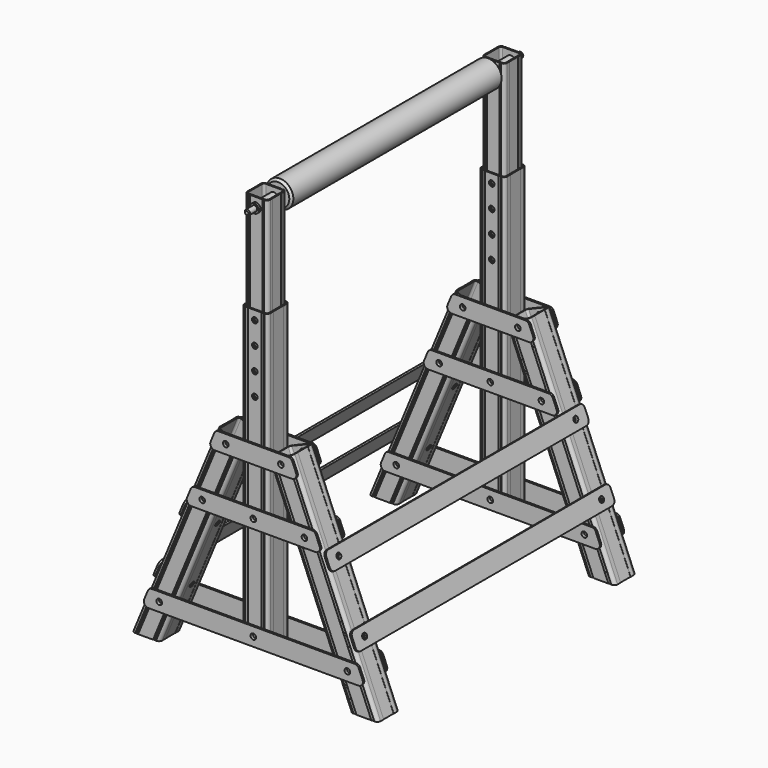
from build123d import *

# Parameters (mm, degrees)
F0_R      = 6.25
F1_DEPTH  = 60
F2_R      = 6.25
F3_DEPTH  = 57.7
F4_R      = 7.5
F6_DEPTH  = 501
F7_W      = 57.7
F7_H      = 654
F7_R      = 6.25
F8_DEPTH  = 60
F9_R      = 7.5
F11_DEPTH = 654
F15_W     = 51
F15_H     = 610
F15_R     = 6.25
F15_R_2   = 10
F16_DEPTH = 26.15
F17_R     = 7.5
F19_DEPTH = 610
F21_R     = 6.25
F22_DEPTH = 4
F23_R     = 10
F23_2_R   = 10
F23_3_R   = 10
F26_R     = 10
F26_R_2   = 6.25
F27_DEPTH = 31
F29_W     = 720
F29_H     = 40
F29_R     = 6.25
F30_DEPTH = 4
F31_R     = 10
F31_2_R   = 10
F34_R     = 5.9
F35_DEPTH = 382.5
F36_R     = 30
F36_R_2   = 6.25
F37_DEPTH = 295
F38_SIZE  = 2
F40_SIZE  = 5


with BuildPart() as f1:
    # F0 (on Front) → F1 (new body)
    with BuildSketch(Plane.XZ):
        Polygon((-62.4540299569, 0), (0, 0), (-191.3417161825, 461.9397662556), (-244.6495652084, 439.8589322082), align=None)
        with Locations((-64.9222677495, 81.3475362274)):
            Circle(F0_R, mode=Mode.SUBTRACT)
        with Locations((-160.5931258407, 312.3174193552)):
            Circle(F0_R, mode=Mode.SUBTRACT)
        with Locations((-213.0207560747, 438.8889153093)):
            Circle(F0_R, mode=Mode.SUBTRACT)
    extrude(amount=F1_DEPTH)

    # F2 (on face) → F3 (cut, through all)
    with BuildSketch(Plane(origin=(0, 0, 0), x_dir=(0, 1, 0), z_dir=(0.9238795325, 0, 0.3826834324))):
        with Locations((-30, 150)):
            Circle(F2_R)
        with Locations((-30, 300)):
            Circle(F2_R)
    extrude(amount=-F3_DEPTH, mode=Mode.SUBTRACT)

    # F4
    f4_edges = [f1.edges().sort_by_distance(p)[0] for p in [
        (-153.551798, -60, 219.929466),
        (-95.670858, -60, 230.969883),
        (-153.551798, 0, 219.929466),
        (-95.670858, 0, 230.969883),
    ]]
    fillet(f4_edges, radius=F4_R)

    # F5 (on face) → F6 (cut, up to face)
    with BuildSketch(Plane(origin=(-191.3417161825, 0, 461.9397662556), x_dir=(0.9238795325, 0, 0.3826834324), z_dir=(-0.3826834324, 0, 0.9238795325))):
        Polygon((-45.2, -59), (-46.2, -60), (-44.2, -60), align=None)
        Polygon((-47.2, -59), (-48.2, -60), (-46.2, -60), align=None)
        Polygon((-49.2, -59), (-50.2, -60), (-48.2, -60), align=None)
        Polygon((-8.5, -59), (-9.5, -60), (-7.5, -60), align=None)
        Polygon((-10.5, -59), (-11.5, -60), (-9.5, -60), align=None)
        Polygon((-12.5, -59), (-13.5, -60), (-11.5, -60), align=None)
        Polygon((-0.3, -44), (0, -44), (0, -16), (-0.3, -16), (-0.3, -30), align=None)
        Polygon((-57.4, -44), (-57.4, -30), (-57.4, -16), (-57.7, -16), (-57.7, -44), align=None)
        Polygon((-48.2, 0), (-50.2, 0), (-49.2, -1), align=None)
        Polygon((-46.2, 0), (-48.2, 0), (-47.2, -1), align=None)
        Polygon((-44.2, 0), (-46.2, 0), (-45.2, -1), align=None)
        Polygon((-7.5, 0), (-9.5, 0), (-8.5, -1), align=None)
        Polygon((-9.5, 0), (-11.5, 0), (-10.5, -1), align=None)
        Polygon((-11.5, 0), (-13.5, 0), (-12.5, -1), align=None)
        with BuildLine():
            Line((-54.8, -30), (-54.8, -52.5))
            ThreePointArc((-54.8, -52.5), (-53.4526911935, -55.7526911935), (-50.2, -57.1))
            Line((-50.2, -57.1), (-28.85, -57.1))
            Line((-28.85, -57.1), (-7.5, -57.1))
            ThreePointArc((-7.5, -57.1), (-4.2473088065, -55.7526911935), (-2.9, -52.5))
            Line((-2.9, -52.5), (-2.9, -30))
            Line((-2.9, -30), (-2.9, -7.5))
            ThreePointArc((-2.9, -7.5), (-4.2473088065, -4.2473088065), (-7.5, -2.9))
            Line((-7.5, -2.9), (-28.85, -2.9))
            Line((-28.85, -2.9), (-50.2, -2.9))
            ThreePointArc((-50.2, -2.9), (-53.4526911935, -4.2473088065), (-54.8, -7.5))
            Line((-54.8, -7.5), (-54.8, -30))
        make_face()
    extrude(amount=-F6_DEPTH, mode=Mode.SUBTRACT)


with BuildPart() as f8:
    # F7 (on face) → F8 (new body)
    with BuildSketch(Plane.XZ.offset(60)):
        with Locations((-274.4995652084, 393.3174193552)):
            Rectangle(F7_W, F7_H)
        with Locations((-274.4995652084, 81.3475362274)):
            Circle(F7_R, mode=Mode.SUBTRACT)
        with Locations((-274.4995652084, 312.3174193552)):
            Circle(F7_R, mode=Mode.SUBTRACT)
        with Locations((-274.4995652084, 600.3174193552)):
            Circle(F7_R, mode=Mode.SUBTRACT)
        with Locations((-274.4995652084, 650.3174193552)):
            Circle(F7_R, mode=Mode.SUBTRACT)
        with Locations((-274.4995652084, 700.3174193552)):
            Circle(F7_R, mode=Mode.SUBTRACT)
        with Locations((-274.4995652084, 550.3174193552)):
            Circle(F7_R, mode=Mode.SUBTRACT)
    extrude(amount=-F8_DEPTH)

    # F9
    f9_edges = [f8.edges().sort_by_distance(p)[0] for p in [
        (-303.349565, 0, 393.317419),
        (-303.349565, -60, 393.317419),
        (-245.649565, -60, 393.317419),
        (-245.649565, 0, 393.317419),
    ]]
    fillet(f9_edges, radius=F9_R)

    # F10 (on face) → F11 (cut, through all)
    with BuildSketch(Plane.XY.offset(720.3174193552)):
        Polygon((-290.8495652084, -59), (-291.8495652084, -60), (-289.8495652084, -60), align=None)
        Polygon((-292.8495652084, -59), (-293.8495652084, -60), (-291.8495652084, -60), align=None)
        Polygon((-294.8495652084, -59), (-295.8495652084, -60), (-293.8495652084, -60), align=None)
        Polygon((-303.3495652084, -16), (-303.3495652084, -44), (-303.0495652084, -44), (-303.0495652084, -30), (-303.0495652084, -16), align=None)
        Polygon((-254.1495652084, -59), (-255.1495652084, -60), (-253.1495652084, -60), align=None)
        Polygon((-256.1495652084, -59), (-257.1495652084, -60), (-255.1495652084, -60), align=None)
        Polygon((-258.1495652084, -59), (-259.1495652084, -60), (-257.1495652084, -60), align=None)
        Polygon((-245.9495652084, -44), (-245.6495652084, -44), (-245.6495652084, -16), (-245.9495652084, -16), (-245.9495652084, -30), align=None)
        Polygon((-253.1495652084, 0), (-255.1495652084, 0), (-254.1495652084, -1), align=None)
        Polygon((-255.1495652084, 0), (-257.1495652084, 0), (-256.1495652084, -1), align=None)
        Polygon((-257.1495652084, 0), (-259.1495652084, 0), (-258.1495652084, -1), align=None)
        Polygon((-293.8495652084, 0), (-295.8495652084, 0), (-294.8495652084, -1), align=None)
        Polygon((-291.8495652084, 0), (-293.8495652084, 0), (-292.8495652084, -1), align=None)
        Polygon((-289.8495652084, 0), (-291.8495652084, 0), (-290.8495652084, -1), align=None)
        with BuildLine():
            Line((-300.4495652084, -30), (-300.4495652084, -52.5))
            ThreePointArc((-300.4495652084, -52.5), (-299.1022564019, -55.7526911935), (-295.8495652084, -57.1))
            Line((-295.8495652084, -57.1), (-274.4995652084, -57.1))
            Line((-274.4995652084, -57.1), (-253.1495652084, -57.1))
            ThreePointArc((-253.1495652084, -57.1), (-249.896874015, -55.7526911935), (-248.5495652084, -52.5))
            Line((-248.5495652084, -52.5), (-248.5495652084, -30))
            Line((-248.5495652084, -30), (-248.5495652084, -7.5))
            ThreePointArc((-248.5495652084, -7.5), (-249.896874015, -4.2473088065), (-253.1495652084, -2.9))
            Line((-253.1495652084, -2.9), (-274.4995652084, -2.9))
            Line((-274.4995652084, -2.9), (-295.8495652084, -2.9))
            ThreePointArc((-295.8495652084, -2.9), (-299.1022564019, -4.2473088065), (-300.4495652084, -7.5))
            Line((-300.4495652084, -7.5), (-300.4495652084, -30))
        make_face()
    extrude(amount=-F11_DEPTH, mode=Mode.SUBTRACT)


with BuildPart() as f16:
    # F15 (on mid) → F16 (new body, symmetric)
    with BuildSketch(Plane(origin=(0, -30, 0), x_dir=(-1, 0, 0), z_dir=(0, 1, 0))):
        with Locations((274.4995652084, 635.3174193552)):
            Rectangle(F15_W, F15_H)
        with Locations((274.4995652084, 350.3174193552)):
            Circle(F15_R, mode=Mode.SUBTRACT)
        with Locations((274.4995652084, 400.3174193552)):
            Circle(F15_R, mode=Mode.SUBTRACT)
        with Locations((274.4995652084, 450.3174193552)):
            Circle(F15_R, mode=Mode.SUBTRACT)
        with Locations((274.4995652084, 500.3174193552)):
            Circle(F15_R, mode=Mode.SUBTRACT)
        with Locations((274.4995652084, 550.3174193552)):
            Circle(F15_R, mode=Mode.SUBTRACT)
        with Locations((274.4995652084, 600.3174193552)):
            Circle(F15_R, mode=Mode.SUBTRACT)
        with Locations((274.4995652084, 650.3174193552)):
            Circle(F15_R, mode=Mode.SUBTRACT)
        with Locations((274.4995652084, 700.3174193552)):
            Circle(F15_R, mode=Mode.SUBTRACT)
        with Locations((274.4995652084, 920)):
            Circle(F15_R_2, mode=Mode.SUBTRACT)
    extrude(amount=F16_DEPTH, both=True)

    # F17
    f17_edges = [f16.edges().sort_by_distance(p)[0] for p in [
        (-248.999565, -56.15, 635.317419),
        (-299.999565, -56.15, 635.317419),
        (-248.999565, -3.85, 635.317419),
        (-299.999565, -3.85, 635.317419),
    ]]
    fillet(f17_edges, radius=F17_R)

    # F18 (on face) → F19 (cut, through all)
    with BuildSketch(Plane.XY.offset(940.3174193552)):
        Polygon((-248.9995652084, -42.15), (-248.9995652084, -17.85), (-249.2495652084, -17.85), (-249.2495652084, -30), (-249.2495652084, -42.15), align=None)
        Polygon((-299.7495652084, -17.85), (-299.9995652084, -17.85), (-299.9995652084, -42.15), (-299.7495652084, -42.15), (-299.7495652084, -30), align=None)
        Polygon((-292.4995652084, -56.15), (-290.4995652084, -56.15), (-291.4995652084, -55.15), align=None)
        Polygon((-290.4995652084, -56.15), (-288.4995652084, -56.15), (-289.4995652084, -55.15), align=None)
        Polygon((-258.4995652084, -56.15), (-256.4995652084, -56.15), (-257.4995652084, -55.15), align=None)
        Polygon((-260.4995652084, -56.15), (-258.4995652084, -56.15), (-259.4995652084, -55.15), align=None)
        Polygon((-257.4995652084, -4.85), (-256.4995652084, -3.85), (-258.4995652084, -3.85), align=None)
        Polygon((-259.4995652084, -4.85), (-258.4995652084, -3.85), (-260.4995652084, -3.85), align=None)
        Polygon((-291.4995652084, -4.85), (-290.4995652084, -3.85), (-292.4995652084, -3.85), align=None)
        Polygon((-289.4995652084, -4.85), (-288.4995652084, -3.85), (-290.4995652084, -3.85), align=None)
        with BuildLine():
            Line((-251.8995652084, -30), (-251.8995652084, -11.35))
            ThreePointArc((-251.8995652084, -11.35), (-253.246874015, -8.0973088065), (-256.4995652084, -6.75))
            Line((-256.4995652084, -6.75), (-274.4995652084, -6.75))
            Line((-274.4995652084, -6.75), (-292.4995652084, -6.75))
            ThreePointArc((-292.4995652084, -6.75), (-295.7522564019, -8.0973088065), (-297.0995652084, -11.35))
            Line((-297.0995652084, -11.35), (-297.0995652084, -30))
            Line((-297.0995652084, -30), (-297.0995652084, -48.65))
            ThreePointArc((-297.0995652084, -48.65), (-295.7522564019, -51.9026911935), (-292.4995652084, -53.25))
            Line((-292.4995652084, -53.25), (-274.4995652084, -53.25))
            Line((-274.4995652084, -53.25), (-256.4995652084, -53.25))
            ThreePointArc((-256.4995652084, -53.25), (-253.246874015, -51.9026911935), (-251.8995652084, -48.65))
            Line((-251.8995652084, -48.65), (-251.8995652084, -30))
        make_face()
    extrude(amount=-F19_DEPTH, mode=Mode.SUBTRACT)


with BuildPart() as f20_1:
    # F20: instance of F1
    add(f1.part.mirror(Plane(origin=(-274.4995652084, -11.75, 393.3174193552), x_dir=(0, -1, 0), z_dir=(-1, 0, 0))))


with BuildPart() as f22:
    # F21 (on face) → F22 (new body)
    with BuildSketch(Plane.XZ.offset(60)):
        Polygon((-137.6503821098, 332.3174193552), (-411.3487483071, 332.3174193552), (-427.9172908021, 292.3174193552), (-121.0818396148, 292.3174193552), align=None)
        with Locations((-388.4060045762, 312.3174193552)):
            Circle(F21_R, mode=Mode.SUBTRACT)
        with Locations((-274.4995652084, 312.3174193552)):
            Circle(F21_R, mode=Mode.SUBTRACT)
        with Locations((-160.5931258407, 312.3174193552)):
            Circle(F21_R, mode=Mode.SUBTRACT)
    extrude(amount=F22_DEPTH)

    # F23#2
    f23_2_edges = [f22.edges().sort_by_distance(p)[0] for p in [
        (-137.650382, -62, 332.317419),
        (-121.08184, -62, 292.317419),
        (-427.917291, -62, 292.317419),
        (-411.348748, -62, 332.317419),
    ]]
    fillet(f23_2_edges, radius=F23_2_R)


with BuildPart() as f22b:
    # F21 (on face) → F22, piece 2 (new body)
    with BuildSketch(Plane.XZ.offset(60)):
        Polygon((-41.9795240185, 101.3475362274), (-507.0196063984, 101.3475362274), (-523.5881488933, 61.3475362274), (-25.4109815236, 61.3475362274), align=None)
        with Locations((-484.0768626674, 81.3475362274)):
            Circle(F21_R, mode=Mode.SUBTRACT)
        with Locations((-274.4995652084, 81.3475362274)):
            Circle(F21_R, mode=Mode.SUBTRACT)
        with Locations((-64.9222677495, 81.3475362274)):
            Circle(F21_R, mode=Mode.SUBTRACT)
    extrude(amount=F22_DEPTH)

    # F23
    f23_edges = [f22b.edges().sort_by_distance(p)[0] for p in [
        (-523.588149, -62, 61.347536),
        (-507.019606, -62, 101.347536),
        (-25.410982, -62, 61.347536),
        (-41.979524, -62, 101.347536),
    ]]
    fillet(f23_edges, radius=F23_R)


with BuildPart() as f22c:
    # F21 (on face) → F22, piece 3 (new body)
    with BuildSketch(Plane.XZ.offset(60)):
        Polygon((-190.0780123438, 458.8889153093), (-358.9211180731, 458.8889153093), (-375.489660568, 418.8889153093), (-173.5094698489, 418.8889153093), align=None)
        with Locations((-335.9783743421, 438.8889153093)):
            Circle(F21_R, mode=Mode.SUBTRACT)
        with Locations((-213.0207560747, 438.8889153093)):
            Circle(F21_R, mode=Mode.SUBTRACT)
    extrude(amount=F22_DEPTH)

    # F23#3
    f23_3_edges = [f22c.edges().sort_by_distance(p)[0] for p in [
        (-358.921118, -62, 458.888915),
        (-375.489661, -62, 418.888915),
        (-190.078012, -62, 458.888915),
        (-173.50947, -62, 418.888915),
    ]]
    fillet(f23_3_edges, radius=F23_3_R)


with BuildPart() as f24_1:
    # F24: instance of F22b
    add(f22b.part.mirror(Plane(origin=(-274.4995652084, -30, 390.9025864364), x_dir=(-1, 0, 0), z_dir=(0, 1, 0))))


with BuildPart() as f24_2:
    # F24: instance of F22
    add(f22.part.mirror(Plane(origin=(-274.4995652084, -30, 390.9025864364), x_dir=(-1, 0, 0), z_dir=(0, 1, 0))))


with BuildPart() as f24_3:
    # F24: instance of F22c
    add(f22c.part.mirror(Plane(origin=(-274.4995652084, -30, 390.9025864364), x_dir=(-1, 0, 0), z_dir=(0, 1, 0))))


with BuildPart() as f27:
    # F26 (on mid) → F27 (new body, symmetric)
    with BuildSketch(Plane(origin=(0, -30, 0), x_dir=(-1, 0, 0), z_dir=(0, 1, 0))):
        with Locations((274.4995652084, 920)):
            Circle(F26_R)
        with Locations((274.4995652084, 920)):
            Circle(F26_R_2, mode=Mode.SUBTRACT)
    extrude(amount=F27_DEPTH, both=True)


with BuildPart() as f28_1:
    # F28: instance of F1
    add(f1.part.mirror(Plane(origin=(-274.4995652084, -360, 389.9227441642), x_dir=(1, 0, 0), z_dir=(0, -1, 0))))


with BuildPart() as f28_2:
    # F28: instance of F20_1
    add(f20_1.part.mirror(Plane(origin=(-274.4995652084, -360, 389.9227441642), x_dir=(1, 0, 0), z_dir=(0, -1, 0))))


with BuildPart() as f28_3:
    # F28: instance of F22b
    add(f22b.part.mirror(Plane(origin=(-274.4995652084, -360, 389.9227441642), x_dir=(1, 0, 0), z_dir=(0, -1, 0))))


with BuildPart() as f28_4:
    # F28: instance of F22
    add(f22.part.mirror(Plane(origin=(-274.4995652084, -360, 389.9227441642), x_dir=(1, 0, 0), z_dir=(0, -1, 0))))


with BuildPart() as f28_5:
    # F28: instance of F22c
    add(f22c.part.mirror(Plane(origin=(-274.4995652084, -360, 389.9227441642), x_dir=(1, 0, 0), z_dir=(0, -1, 0))))


with BuildPart() as f28_6:
    # F28: instance of F24_2
    add(f24_2.part.mirror(Plane(origin=(-274.4995652084, -360, 389.9227441642), x_dir=(1, 0, 0), z_dir=(0, -1, 0))))


with BuildPart() as f28_7:
    # F28: instance of F24_3
    add(f24_3.part.mirror(Plane(origin=(-274.4995652084, -360, 389.9227441642), x_dir=(1, 0, 0), z_dir=(0, -1, 0))))


with BuildPart() as f28_8:
    # F28: instance of F24_1
    add(f24_1.part.mirror(Plane(origin=(-274.4995652084, -360, 389.9227441642), x_dir=(1, 0, 0), z_dir=(0, -1, 0))))


with BuildPart() as f28_9:
    # F28: instance of F8
    add(f8.part.mirror(Plane(origin=(-274.4995652084, -360, 389.9227441642), x_dir=(1, 0, 0), z_dir=(0, -1, 0))))


with BuildPart() as f28_10:
    # F28: instance of F16
    add(f16.part.mirror(Plane(origin=(-274.4995652084, -360, 389.9227441642), x_dir=(1, 0, 0), z_dir=(0, -1, 0))))


with BuildPart() as f28_11:
    # F28: instance of F27
    add(f27.part.mirror(Plane(origin=(-274.4995652084, -360, 389.9227441642), x_dir=(1, 0, 0), z_dir=(0, -1, 0))))


with BuildPart() as f30:
    # F29 (on face) → F30 (new body)
    with BuildSketch(Plane(origin=(0, 0, 0), x_dir=(0, 1, 0), z_dir=(0.9238795325, 0, 0.3826834324))):
        with Locations((-360, 150)):
            Rectangle(F29_W, F29_H)
        with Locations((-690, 150)):
            Circle(F29_R, mode=Mode.SUBTRACT)
        with Locations((-30, 150)):
            Circle(F29_R, mode=Mode.SUBTRACT)
    extrude(amount=F30_DEPTH)

    # F31
    f31_edges = [f30.edges().sort_by_distance(p)[0] for p in [
        (-63.208424, -720, 157.824887),
        (-47.901087, -720, 120.869706),
        (-63.208424, 0, 157.824887),
        (-47.901087, 0, 120.869706),
    ]]
    fillet(f31_edges, radius=F31_R)


with BuildPart() as f30b:
    # F29 (on face) → F30, piece 2 (new body)
    with BuildSketch(Plane(origin=(0, 0, 0), x_dir=(0, 1, 0), z_dir=(0.9238795325, 0, 0.3826834324))):
        with Locations((-360, 300)):
            Rectangle(F29_W, F29_H)
        with Locations((-690, 300)):
            Circle(F29_R, mode=Mode.SUBTRACT)
        with Locations((-30, 300)):
            Circle(F29_R, mode=Mode.SUBTRACT)
    extrude(amount=F30_DEPTH)

    # F31#2
    f31_2_edges = [f30b.edges().sort_by_distance(p)[0] for p in [
        (-120.610939, -720, 296.406817),
        (-105.303602, -720, 259.451636),
        (-105.303602, 0, 259.451636),
        (-120.610939, 0, 296.406817),
    ]]
    fillet(f31_2_edges, radius=F31_2_R)


with BuildPart() as f33_1:
    # F33: instance of F30
    add(f30.part.mirror(Plane(origin=(-274.4995652084, -30, 635.3174193552), x_dir=(0, -1, 0), z_dir=(-1, 0, 0))))


with BuildPart() as f33_2:
    # F33: instance of F30b
    add(f30b.part.mirror(Plane(origin=(-274.4995652084, -30, 635.3174193552), x_dir=(0, -1, 0), z_dir=(-1, 0, 0))))


with BuildPart() as f35:
    # F34 (on offset) → F35 (new body, symmetric)
    with BuildSketch(Plane.XZ.offset(360)):
        with Locations((-274.4995652084, 920)):
            Circle(F34_R)
    extrude(amount=F35_DEPTH, both=True)

    # F38
    f38_edges = [f35.edges().sort_by_distance(p)[0] for p in [
        (-280.399565, -742.5, 920),
        (-280.399565, 22.5, 920),
    ]]
    chamfer(f38_edges, length=F38_SIZE)


with BuildPart() as f37:
    # F36 (on offset) → F37 (new body, symmetric)
    with BuildSketch(Plane.XZ.offset(360)):
        with Locations((-274.4995652084, 920)):
            Circle(F36_R)
        with Locations((-274.4995652084, 920)):
            Circle(F36_R_2, mode=Mode.SUBTRACT)
    extrude(amount=F37_DEPTH, both=True)

    # F40
    f40_edges = [f37.edges().sort_by_distance(p)[0] for p in [
        (-304.499565, -655, 920),
        (-304.499565, -65, 920),
    ]]
    chamfer(f40_edges, length=F40_SIZE)


solid = Compound([f1.part, f8.part, f16.part, f20_1.part, f22.part, f22b.part, f22c.part, f24_1.part, f24_2.part, f24_3.part, f27.part, f28_1.part, f28_2.part, f28_3.part, f28_4.part, f28_5.part, f28_6.part, f28_7.part, f28_8.part, f28_9.part, f28_10.part, f28_11.part, f30.part, f30b.part, f33_1.part, f33_2.part, f35.part, f37.part])
